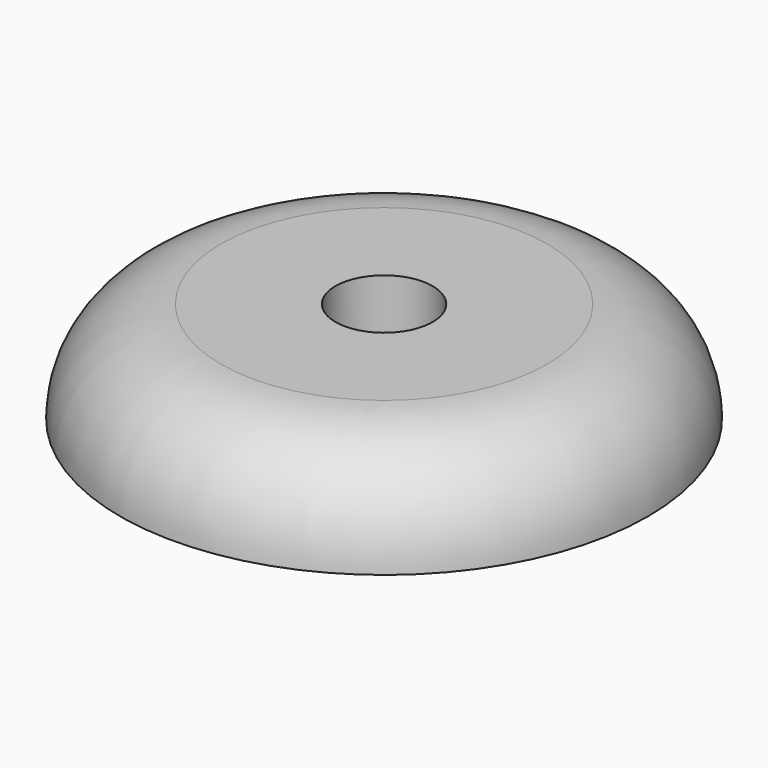
from build123d import *

# Parameters (mm, degrees)
F0_R     = 68.95504
F1_DEPTH = 26.416
F2_R     = 26.368041
F4_D     = 25.4


with BuildPart() as f1:
    # F0 (on Top) → F1 (new body)
    with BuildSketch(Plane.XY):
        Circle(F0_R)
    extrude(amount=F1_DEPTH)

    # F2
    f2_edges = [f1.edges().sort_by_distance(p)[0] for p in [
        (-68.95504, 0, 26.416),
    ]]
    fillet(f2_edges, radius=F2_R)

    # F4 (through all)
    with Locations(Plane(origin=(0, 0, 0), x_dir=(1, 0, 0), z_dir=(0, 0, -1))):
        with Locations((0, 0)):
            Hole(F4_D / 2)


solid = f1.part
